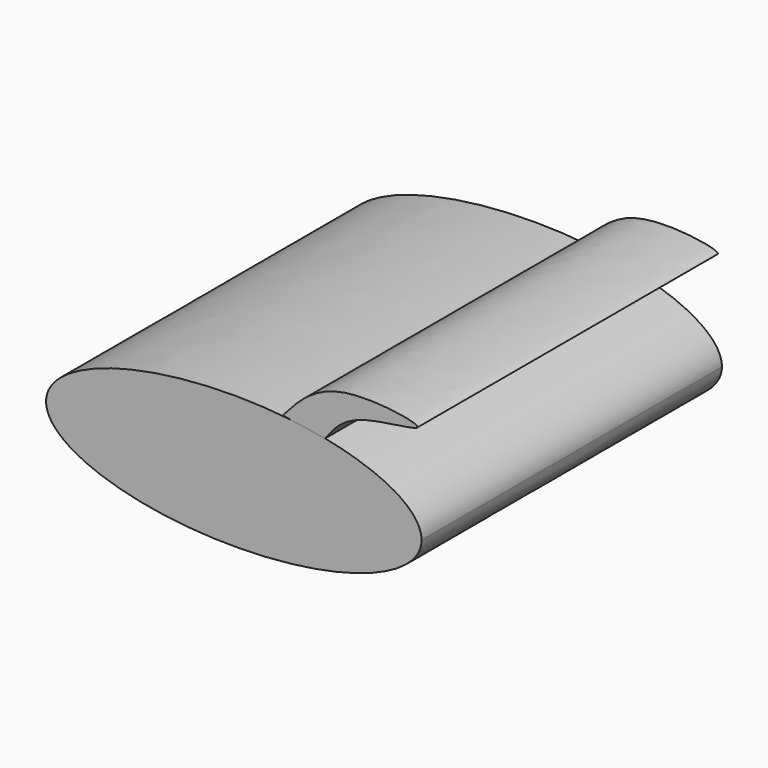
from build123d import *

# Parameters (mm, degrees)
F1_DEPTH = 50
F3_DEPTH = 50


with BuildPart() as f1:
    # F0 (on Front) → F1 (new body)
    with BuildSketch(Plane.XZ):
        with BuildLine():
            add(Edge.make_bspline(
                [(25, 0), (25, 15.3360205654), (-12.5, 7.6680102827), (-50, 0), (-12.5, -7.6680102827), (25, -15.3360205654), (25, 0)],
                knots=[0, 0, 0, 2.0943951024, 2.0943951024, 4.1887902048, 4.1887902048, 6.2831853072, 6.2831853072, 6.2831853072], degree=2, weights=[1, 0.5, 1, 0.5, 1, 0.5, 1]))
        make_face()
    extrude(amount=F1_DEPTH)

    # F2 (on Front) → F3 (join)
    with BuildSketch(Plane.XZ):
        with BuildLine():
            add(Edge.make_bspline(
                [(6.518162787, 8.6095556617), (8.548874499, 10.9084846579), (12.6535357781, 15.55528948), (29.8037597084, 12.7771499916), (15.5097047083, 12.2179824208), (13.196809546, 9.1196778573), (12.1191367507, 7.6760575175)],
                knots=[0, 0, 0, 0, 0.2690628787, 0.5438544762, 0.7874633719, 1, 1, 1, 1], degree=3))
            Line((6.518162787, 8.6095556617), (12.1191367507, 7.6760575175))
        make_face()
    extrude(amount=F3_DEPTH)


solid = f1.part
